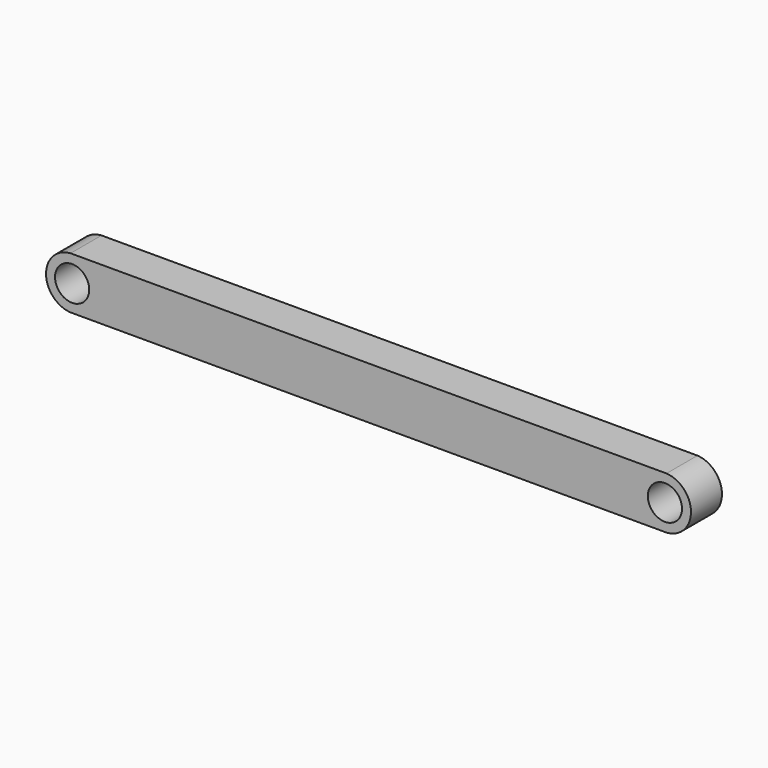
from build123d import *

# Parameters (mm, degrees)
F0_R     = 2.5019
F1_DEPTH = 5.6642


with BuildPart() as f1:
    # F0 (on Front) → F1 (new body)
    with BuildSketch(Plane.XZ):
        with BuildLine():
            Line((43.378084, -3.81), (43.839709, -3.81))
            ThreePointArc((43.839709, -3.81), (47.425881, 0), (43.839709, 3.81))
            Line((43.839709, 3.81), (43.378084, 3.81))
            Line((43.378084, 3.81), (-42.917735, 3.81))
            Line((-42.917735, 3.81), (-43.37936, 3.81))
            ThreePointArc((-43.37936, 3.81), (-46.965532, 0), (-43.37936, -3.81))
            Line((-43.37936, -3.81), (-42.917735, -3.81))
            Line((-42.917735, -3.81), (43.378084, -3.81))
        make_face()
        with Locations((-43.148547, 0)):
            Circle(F0_R, mode=Mode.SUBTRACT)
        with Locations((43.608896, 0)):
            Circle(F0_R, mode=Mode.SUBTRACT)
    extrude(amount=F1_DEPTH)


solid = f1.part
